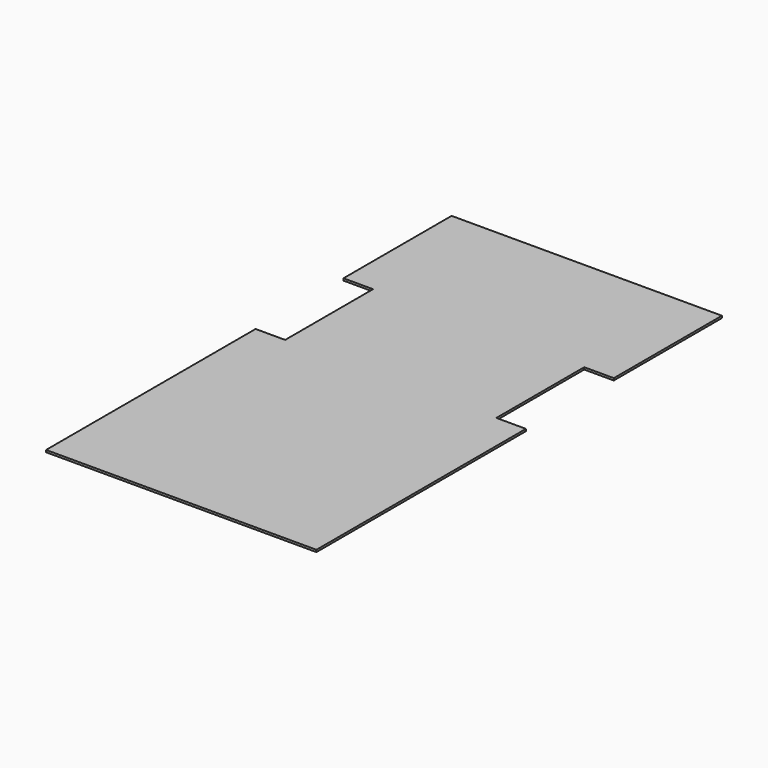
from build123d import *

# Parameters (mm, degrees)
F0_W     = 1625.6
F0_H     = 3048
F1_DEPTH = 12.7
F2_W     = 177.8
F2_H     = 660.4
F3_DEPTH = 12.701


with BuildPart() as f1:
    # F0 (on Top) → F1 (new body)
    with BuildSketch(Plane.XY):
        Rectangle(F0_W, F0_H)
    extrude(amount=F1_DEPTH)

    # F2 (on face) → F3 (cut, through all)
    with BuildSketch(Plane.XY.offset(12.7)):
        with Locations((-723.9, 381)):
            Rectangle(F2_W, F2_H)
        with Locations((723.9, 381)):
            Rectangle(F2_W, F2_H)
    extrude(amount=-F3_DEPTH, mode=Mode.SUBTRACT)


solid = f1.part
